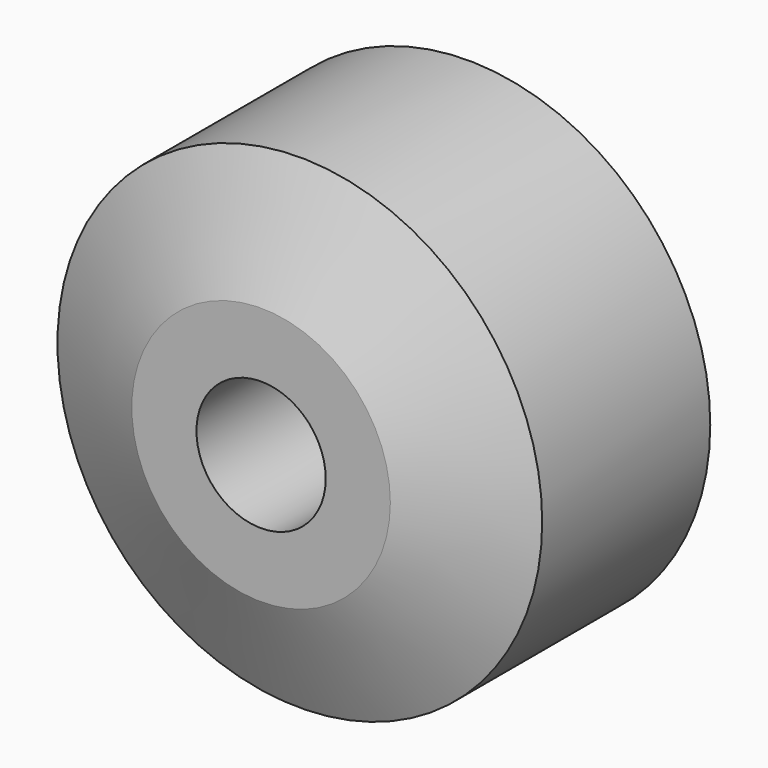
from build123d import *

# Parameters (mm, degrees)
SKETCH046_R      = 14.2875
PAD046_DEPTH     = 12.7
SKETCH045_R      = 23.8125
SKETCH045_R_2    = 6.35
PAD045_DEPTH     = 25.4
CHAMFER002_SIZE2 = 11.11
CHAMFER002_SIZE  = 4.76


with BuildPart() as body046:
    # Sketch046 → Pad046 (new body)
    with BuildSketch(Plane.XZ):
        Circle(SKETCH046_R)
    extrude(amount=PAD046_DEPTH)


with BuildPart() as chamfer002:
    # Sketch045 → Pad045 (new body)
    with BuildSketch(Plane.XZ):
        Circle(SKETCH045_R)
        Circle(SKETCH045_R_2, mode=Mode.SUBTRACT)
    extrude(amount=PAD045_DEPTH)

    # Cut040: cut Body046
    add(body046.part, mode=Mode.SUBTRACT)

    # Chamfer002
    chamfer002_edges = [chamfer002.edges().sort_by_distance(p)[0] for p in [
        (-23.8125, -25.4, 0),
    ]]
    chamfer002_side = chamfer002.faces().sort_by_distance((-23.8125, -12.7, 0))[0]
    chamfer(chamfer002_edges, length=CHAMFER002_SIZE, length2=CHAMFER002_SIZE2, reference=chamfer002_side)


with BuildPart() as chamfer002_1:
    # Chamfer002 placement: moved
    add(chamfer002.part.moved(Location((0, -12.7, 0))))


solid = chamfer002_1.part
